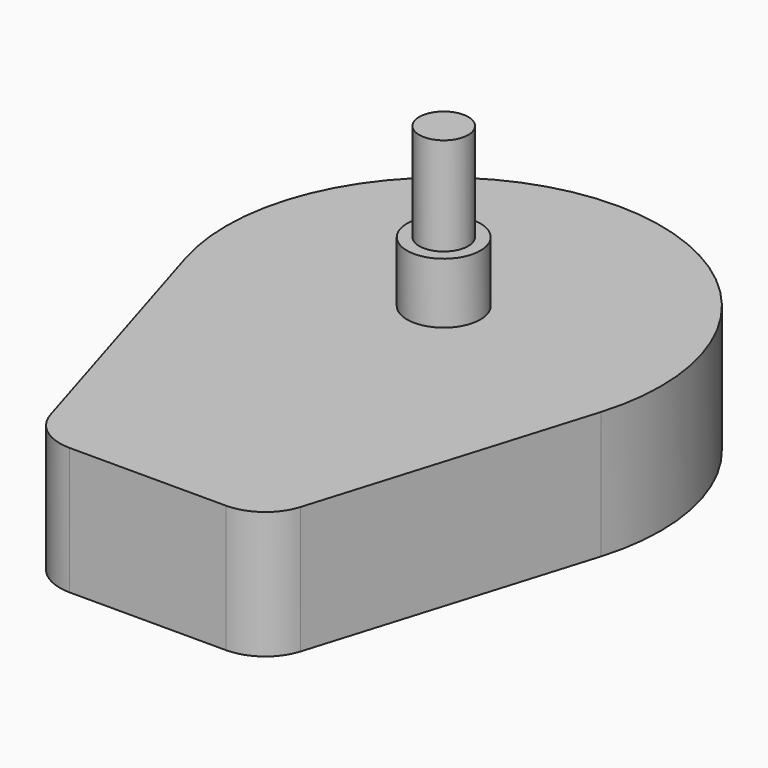
from build123d import *

# Parameters (mm, degrees)
F1_DEPTH = 16.51
F2_R     = 3.175
F3_DEPTH = 20.574
F4_R     = 4.7625
F5_DEPTH = 7.874
F6_R     = 6.35


with BuildPart() as f1:
    # F0 (on Top) → F1 (new body)
    with BuildSketch(Plane.XY):
        with BuildLine():
            Line((14.859, -48.006), (26.972211, -8.209839))
            ThreePointArc((26.972211, -8.209839), (0, 28.194), (-26.972211, -8.209839))
            Line((-26.972211, -8.209839), (-14.859, -48.006))
            Line((-14.859, -48.006), (14.859, -48.006))
        make_face()
    extrude(amount=F1_DEPTH)

    # F2 (on face) → F3 (join)
    with BuildSketch(Plane.XY.offset(16.51)):
        Circle(F2_R)
    extrude(amount=F3_DEPTH)

    # F4 (on face) → F5 (join)
    with BuildSketch(Plane.XY.offset(16.51)):
        Circle(F4_R)
    extrude(amount=F5_DEPTH)

    # F6
    f6_edges = [f1.edges().sort_by_distance(p)[0] for p in [
        (-14.859, -48.006, 8.255),
        (14.859, -48.006, 8.255),
    ]]
    fillet(f6_edges, radius=F6_R)


solid = f1.part
